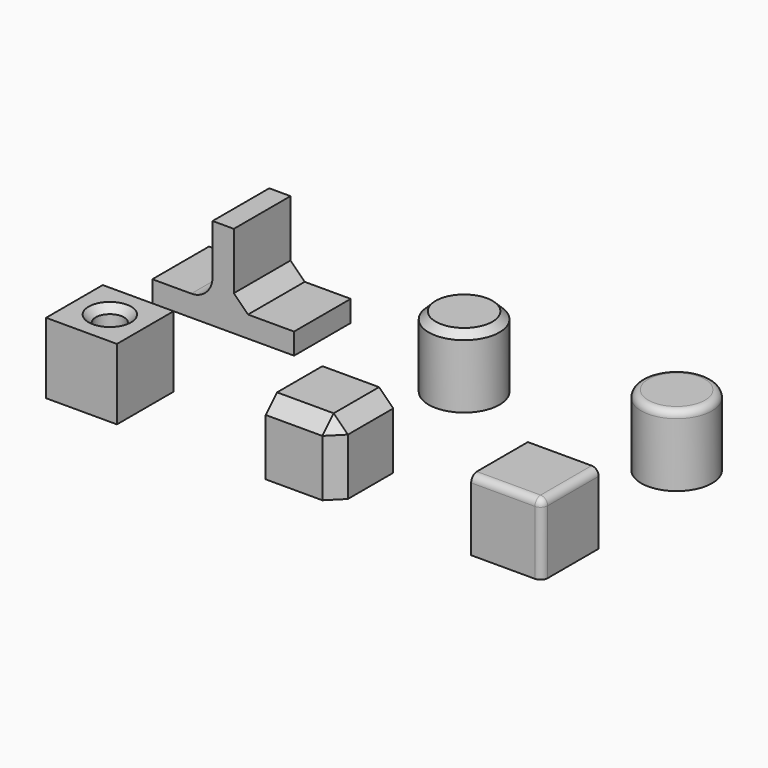
from build123d import *

# Parameters (mm, degrees)
BOX_W             = 10
BOX_H             = 10
BOX_DEPTH         = 10
FILLET_R          = 1
BOX001_W          = 10
BOX001_H          = 10
BOX001_DEPTH      = 10
CHAMFER_SIZE      = 2
CYLINDER_R        = 2
CYLINDER_DEPTH    = 12
BOX002_W          = 10
BOX002_H          = 10
BOX002_DEPTH      = 10
CHAMFER001_SIZE   = 1
CYLINDER001_R     = 5
CYLINDER001_DEPTH = 10
FILLET001_R       = 1
CYLINDER002_R     = 5
CYLINDER002_DEPTH = 10
CHAMFER002_SIZE   = 1
BOX004_W          = 3
BOX004_H          = 10
BOX004_DEPTH      = 13
BOX003_W          = 20
BOX003_H          = 10
BOX003_DEPTH      = 3
CHAMFER003_SIZE   = 2
FILLET002_R       = 3


with BuildPart() as fillet_body:
    # Box → Box (new body)
    with BuildSketch(Plane.XY):
        with Locations((5, 5)):
            Rectangle(BOX_W, BOX_H)
    extrude(amount=BOX_DEPTH)

    # Fillet
    fillet_edges = [fillet_body.edges().sort_by_distance(p)[0] for p in [
        (10, 0, 5),
        (10, 5, 10),
        (5, 0, 10),
    ]]
    fillet(fillet_edges, radius=FILLET_R)


with BuildPart() as fillet_body_1:
    # Fillet placement: moved
    add(fillet_body.part.moved(Location((5, 0, 0))))


with BuildPart() as chamfer_body:
    # Box001 → Box001 (new body)
    with BuildSketch(Plane(origin=(-20, 0, 0), x_dir=(1, 0, 0), z_dir=(0, 0, 1))):
        with Locations((5, 5)):
            Rectangle(BOX001_W, BOX001_H)
    extrude(amount=BOX001_DEPTH)

    # Chamfer
    chamfer_edges = [chamfer_body.edges().sort_by_distance(p)[0] for p in [
        (-10, 0, 5),
        (-10, 5, 10),
        (-15, 0, 10),
    ]]
    chamfer(chamfer_edges, length=CHAMFER_SIZE)


with BuildPart() as chamfer_body_1:
    # Chamfer placement: moved
    add(chamfer_body.part.moved(Location((-4, 0, 0))))


with BuildPart() as cilindre:
    # Cylinder → Cylinder (new body)
    with BuildSketch(Plane(origin=(-35, 5, -1), x_dir=(1, 0, 0), z_dir=(0, 0, 1))):
        Circle(CYLINDER_R)
    extrude(amount=CYLINDER_DEPTH)


with BuildPart() as chamfer001:
    # Box002 → Box002 (new body)
    with BuildSketch(Plane(origin=(-40, 0, 0), x_dir=(1, 0, 0), z_dir=(0, 0, 1))):
        with Locations((5, 5)):
            Rectangle(BOX002_W, BOX002_H)
    extrude(amount=BOX002_DEPTH)

    # Cut: cut Cilindre
    add(cilindre.part, mode=Mode.SUBTRACT)

    # Chamfer001
    chamfer001_edges = [chamfer001.edges().sort_by_distance(p)[0] for p in [
        (-37, 5, 10),
    ]]
    chamfer(chamfer001_edges, length=CHAMFER001_SIZE)


with BuildPart() as chamfer001_1:
    # Chamfer001 placement: moved
    add(chamfer001.part.moved(Location((-15, 0, 0))))


with BuildPart() as fillet001:
    # Cylinder001 → Cylinder001 (new body)
    with BuildSketch(Plane(origin=(5, 30, 0), x_dir=(1, 0, 0), z_dir=(0, 0, 1))):
        Circle(CYLINDER001_R)
    extrude(amount=CYLINDER001_DEPTH)

    # Fillet001
    fillet001_edges = [fillet001.edges().sort_by_distance(p)[0] for p in [
        (0, 30, 10),
    ]]
    fillet(fillet001_edges, radius=FILLET001_R)


with BuildPart() as fillet001_1:
    # Fillet001 placement: moved
    add(fillet001.part.moved(Location((5, 0, 0))))


with BuildPart() as chamfer002:
    # Cylinder002 → Cylinder002 (new body)
    with BuildSketch(Plane(origin=(-20, 30, 0), x_dir=(1, 0, 0), z_dir=(0, 0, 1))):
        Circle(CYLINDER002_R)
    extrude(amount=CYLINDER002_DEPTH)

    # Chamfer002
    chamfer002_edges = [chamfer002.edges().sort_by_distance(p)[0] for p in [
        (-25, 30, 10),
    ]]
    chamfer(chamfer002_edges, length=CHAMFER002_SIZE)


with BuildPart() as cub004:
    # Box004 → Box004 (new body)
    with BuildSketch(Plane(origin=(-51.5, 25, 0), x_dir=(1, 0, 0), z_dir=(0, 0, 1))):
        with Locations((1.5, 5)):
            Rectangle(BOX004_W, BOX004_H)
    extrude(amount=BOX004_DEPTH)


with BuildPart() as fillet002:
    # Box003 → Box003 (new body)
    with BuildSketch(Plane(origin=(-60, 25, 0), x_dir=(1, 0, 0), z_dir=(0, 0, 1))):
        with Locations((10, 5)):
            Rectangle(BOX003_W, BOX003_H)
    extrude(amount=BOX003_DEPTH)

    # Fusion: union Cub004
    add(cub004.part)

    # Chamfer003
    chamfer003_edges = [fillet002.edges().sort_by_distance(p)[0] for p in [
        (-48.5, 30, 3),
    ]]
    chamfer(chamfer003_edges, length=CHAMFER003_SIZE)

    # Fillet002
    fillet002_edges = [fillet002.edges().sort_by_distance(p)[0] for p in [
        (-51.5, 30, 3),
    ]]
    fillet(fillet002_edges, radius=FILLET002_R)


solid = Compound([fillet_body_1.part, chamfer_body_1.part, chamfer001_1.part, fillet001_1.part, chamfer002.part, fillet002.part])
